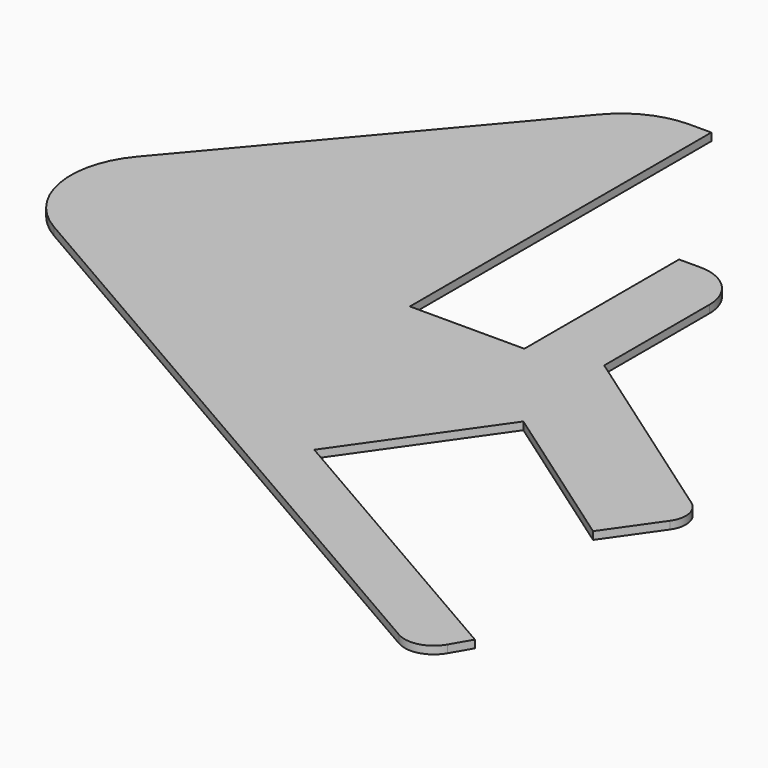
from build123d import *

# Parameters (mm, degrees)
PAD_DEPTH = 1


with BuildPart() as part:
    # Sketch → Pad (new body)
    with BuildSketch(Plane.XY):
        with BuildLine():
            Line((-10.160357, 55.713741), (-7.4, 55.713741))
            Line((-7.4, 55.713741), (-7.4, 7.001158))
            Line((-7.4, 7.001158), (7.4, 7.001158))
            Line((7.4, 7.001158), (7.4, 32.001158))
            Line((7.4, 32.001158), (10.160357, 32.001158))
            ThreePointArc((15.97188, 26.189635), (14.269724, 30.299002), (10.160357, 32.001158))
            Line((15.97188, 26.189635), (15.97188, 9.18934))
            Line((15.97188, 9.18934), (41.610469, -8.762993))
            ThreePointArc((42.38744, -13.169411), (42.911553, -10.805287), (41.610469, -8.762993))
            Line((42.38744, -13.169411), (37.733901, -19.815354))
            Line((37.733901, -19.815354), (17.2551, -5.475943))
            Line((17.2551, -5.475943), (4.636418, -23.497288))
            Line((4.636418, -23.497288), (43.223113, -45.775327))
            Line((43.223113, -45.775327), (41.734914, -48.352964))
            ThreePointArc((36.587732, -49.732148), (39.446961, -50.108572), (41.734914, -48.352964))
            Line((36.587732, -49.732148), (-46.367118, -1.838143))
            ThreePointArc((-49.375993, 15.369795), (-51.891139, 6.062986), (-46.367118, -1.838143))
            Line((-49.375993, 15.369795), (-18.658434, 51.765797))
            ThreePointArc((-10.160357, 55.713741), (-14.845535, 54.678573), (-18.658434, 51.765797))
        make_face()
    extrude(amount=PAD_DEPTH)


solid = part.part
